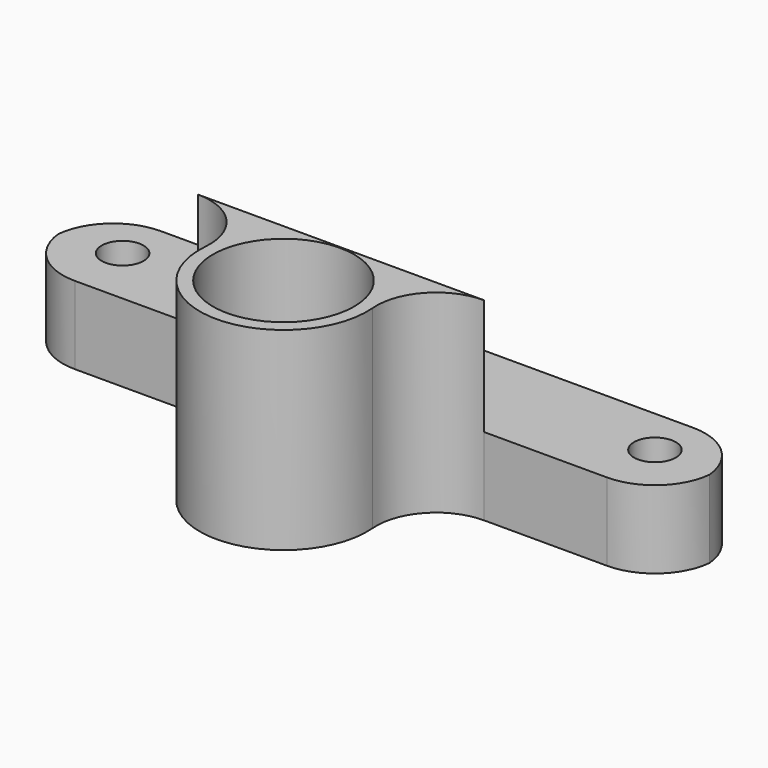
from build123d import *

# Parameters (mm, degrees)
F0_R     = 1.75
F0_R_2   = 5.9
F1_DEPTH = 6.5
F2_DEPTH = 16.2


with BuildPart() as f1:
    # F0 (on Top) → F1 (new body)
    with BuildSketch(Plane.XY):
        with BuildLine():
            Line((7.780111, 20.456612), (-36.719889, 20.456612))
            ThreePointArc((-36.719889, 20.456612), (-40.073991, 19.164712), (-41.694827, 15.956612))
            ThreePointArc((-41.694827, 15.956612), (-40.073991, 12.748513), (-36.719889, 11.456612))
            Line((-36.719889, 11.456612), (-26.42815, 11.456612))
            Line((-26.42815, 11.456612), (-2.511629, 11.456612))
            Line((-2.511629, 11.456612), (7.780111, 11.456612))
            ThreePointArc((7.780111, 11.456612), (11.134213, 12.748513), (12.755048, 15.956612))
            ThreePointArc((12.755048, 15.956612), (11.134213, 19.164712), (7.780111, 20.456612))
        make_face()
        with Locations((-36.719889, 16.456612)):
            Circle(F0_R, mode=Mode.SUBTRACT)
        with Locations((7.780111, 16.456612)):
            Circle(F0_R, mode=Mode.SUBTRACT)
        with BuildLine():
            Line((-2.511629, 11.456612), (-26.42815, 11.456612))
            ThreePointArc((-26.42815, 11.456612), (-22.74825, 9.841628), (-21.445541, 6.039946))
            ThreePointArc((-21.445541, 6.039946), (-14.469889, -1.543388), (-7.494237, 6.039946))
            ThreePointArc((-7.494237, 6.039946), (-6.191529, 9.841628), (-2.511629, 11.456612))
        make_face()
        with Locations((-14.469889, 5.456612)):
            Circle(F0_R_2, mode=Mode.SUBTRACT)
    extrude(amount=F1_DEPTH)

    # F0 (on Top) → F2 (join)
    with BuildSketch(Plane.XY):
        with BuildLine():
            Line((-2.511629, 11.456612), (-26.42815, 11.456612))
            ThreePointArc((-26.42815, 11.456612), (-22.74825, 9.841628), (-21.445541, 6.039946))
            ThreePointArc((-21.445541, 6.039946), (-14.469889, -1.543388), (-7.494237, 6.039946))
            ThreePointArc((-7.494237, 6.039946), (-6.191529, 9.841628), (-2.511629, 11.456612))
        make_face()
        with Locations((-14.469889, 5.456612)):
            Circle(F0_R_2, mode=Mode.SUBTRACT)
    extrude(amount=F2_DEPTH)


solid = f1.part
